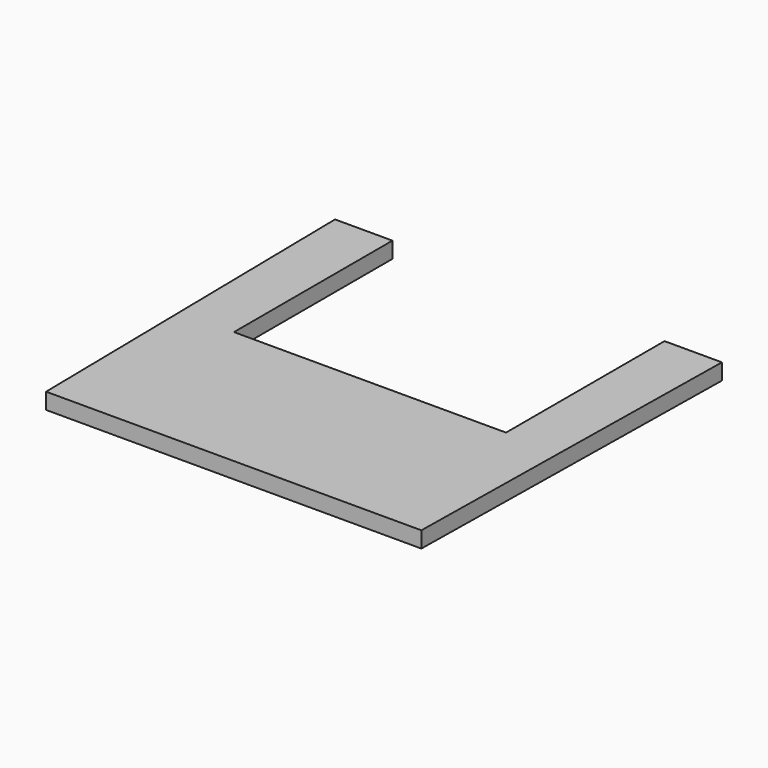
from build123d import *

# Parameters (mm, degrees)
F1_DEPTH = 20


with BuildPart() as f1:
    # F0 (on Top) → F1 (new body)
    with BuildSketch(Plane.XY):
        Polygon((-233.153212, 88.580258), (0, 88.580258), (0, 300.226629), (-169.031336, 300.226629), (-169.031336, 546.369433), (-240.361035, 546.369433), align=None)
    extrude(amount=F1_DEPTH)

    # F2: F1 across plane


with BuildPart() as f1_1:
    add(f1.part)
    add(f1.part.mirror(Plane.YZ))


solid = f1_1.part
